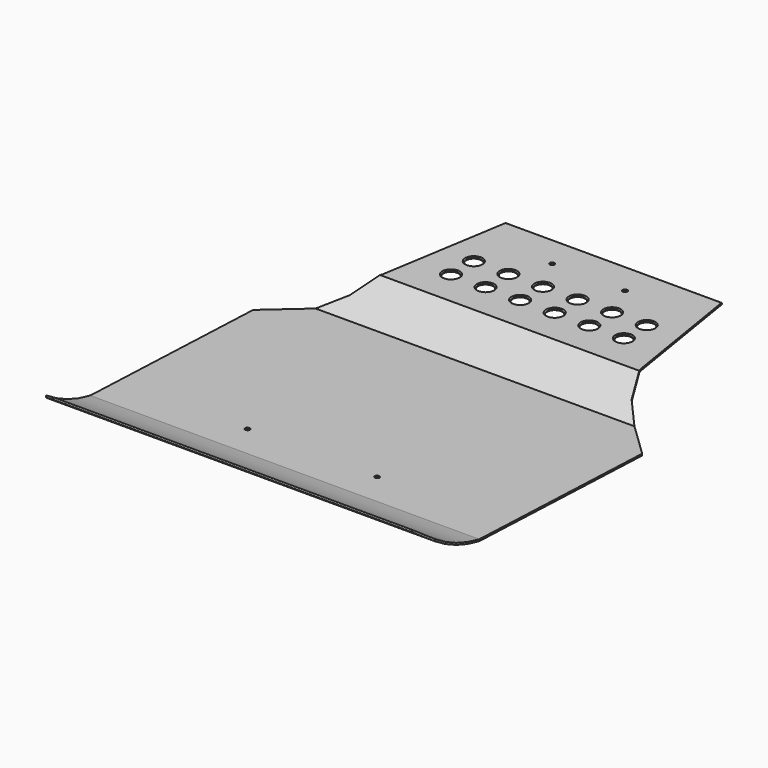
from build123d import *

# Parameters (mm, degrees)
F2_DEPTH        = 450
F5_DEPTH        = 137
F7_DEPTH        = 134.9001572951
F9_D            = 11
F12_D           = 11
F14_D           = 35
F14_CSINK_D     = 40
F14_CSINK_ANGLE = 90


with BuildPart() as f2:
    # F1 (on offset) → F2 (new body, through all)
    with BuildSketch(Plane.YZ.offset(450)):
        with BuildLine():
            ThreePointArc((633.4541976452, 15.1353164322), (635.4541972499, 17.135316037), (633.4541976452, 19.1353156418))
            Line((633.4541976452, 19.1353156418), (333.4541976452, 19.1353156418))
            Line((333.4541976452, 19.1353156418), (233.4541976452, -30.8646843582))
            Line((233.4541976452, -30.8646843582), (-316.5458023548, -10.8646843582))
            ThreePointArc((-316.5458023548, -10.8646843582), (-395.7263494601, 14.2619563044), (-466.5458023548, 57.6844412928))
            ThreePointArc((-466.5458023548, 57.6844412928), (-468.6915325534, 56.8348647408), (-469.0341345652, 54.5526372621))
            ThreePointArc((-469.0341345652, 54.5526372621), (-397.2522499905, 10.5614235075), (-316.9897726189, -14.8511829484))
            Line((-316.9897726189, -14.8511829484), (234.329521914, -34.8991572951))
            Line((234.329521914, -34.8991572951), (334.3984693686, 15.1353164322))
            Line((334.3984693686, 15.1353164322), (633.4541976452, 15.1353164322))
        make_face()
    extrude(amount=-F2_DEPTH)

    # F4 (on offset) → F5 (cut)
    with BuildSketch(Plane.XY.offset(100)):
        Polygon((498.5155965069, 703.4857805286), (218.7778259494, 735.3884513889), (237.0079512575, 712.9704888378), (297.9584336281, 337.6117348671), (326.3231515884, 278.4070670605), (368.6494827271, 233.5909307003), (451.0919357517, 153.3712233816), (483.6110378483, 153.3712233816), align=None)
    extrude(amount=-F5_DEPTH, mode=Mode.SUBTRACT)

    # F6 (on offset) → F7 (cut, through all)
    with BuildSketch(Plane.XY.offset(100)):
        with BuildLine():
            ThreePointArc((478.8447916508, -417.378693819), (427.8834958855, -460.3781245943), (367.9305016994, -489.5610511303))
            Line((367.9305016994, -489.5610511303), (478.8447916508, -496.6032207012))
            Line((478.8447916508, -496.6032207012), (478.8447916508, -417.378693819))
        make_face()
    extrude(amount=-F7_DEPTH, mode=Mode.SUBTRACT)

    # F9 (through all)
    with Locations(Plane.XY.offset(19.1353156418)):
        with Locations((84.2372775078, 561.8938207626)):
            Hole(F9_D / 2)

    # F10: F2 across plane


with BuildPart() as f2_1:
    add(f2.part)
    add(f2.part.mirror(Plane.YZ))

    # F12 (through all)
    with Locations(Plane(origin=(0, -0.8125779098, -22.3458925199), x_dir=(1, 0, 0), z_dir=(0, 0.0363396181, 0.9993394979))):
        with Locations((-150, -236.43194139), (150, -236.43194139)):
            Hole(F12_D / 2)

    # F14 (through all)
    with Locations(Plane.XY.offset(19.1353156418)):
        with Locations((198.7729519606, 481.4921915531), (118.7729519606, 481.4921915531), (38.7729519606, 481.4921915531), (-41.2270480394, 481.4921915531), (-121.2270480394, 481.4921915531), (-201.2270480394, 481.4921915531), (-201.2270480394, 415.4921915531), (-121.2270480394, 415.4921915531), (-41.2270480394, 415.4921915531), (38.7729519606, 415.4921915531), (118.7729519606, 415.4921915531), (198.7729519606, 415.4921915531)):
            CounterSinkHole(F14_D / 2, F14_CSINK_D / 2, counter_sink_angle=F14_CSINK_ANGLE)


solid = f2_1.part
